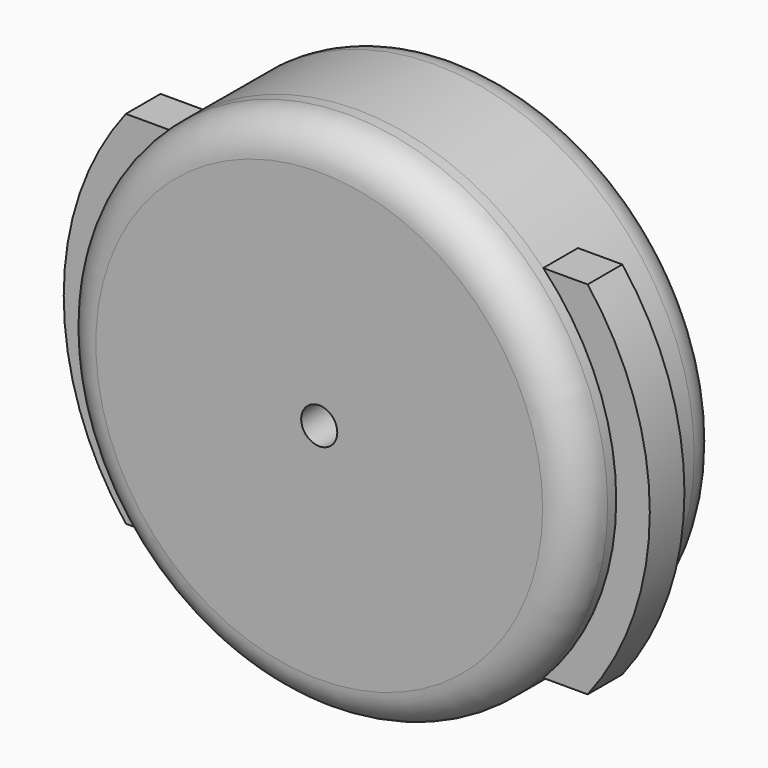
from build123d import *

# Parameters (mm, degrees)
F0_R           = 9.1313
F1_DEPTH       = 3.175
F3_DEPTH       = 1.524
F4_R           = 9.1313
F5_DEPTH       = 1.524
F6_R           = 9.1313
F7_DEPTH       = 1.651
F8_R           = 7.6073
F9_DEPTH       = 4.826
F10_R          = 0.635
F11_DEPTH      = 25.4
F11_DEPTH_BACK = 25.4
F12_R          = 1.27
F13_R          = 1.27


with BuildPart() as f1:
    # F0 (on Front) → F1 (new body)
    with BuildSketch(Plane.XZ):
        Circle(F0_R)
    extrude(amount=F1_DEPTH)

    # F2 (on face) → F3 (join)
    with BuildSketch(Plane.XZ.offset(3.175)):
        with BuildLine():
            Line((8.12546, 6.35), (-8.12546, 6.35))
            ThreePointArc((-8.12546, 6.35), (-10.3124, 0), (-8.12546, -6.35))
            Line((-8.12546, -6.35), (8.12546, -6.35))
            ThreePointArc((8.12546, -6.35), (10.3124, 0), (8.12546, 6.35))
        make_face()
    extrude(amount=F3_DEPTH)

    # F4 (on face) → F5 (join)
    with BuildSketch(Plane.XZ.offset(4.699)):
        Circle(F4_R)
    extrude(amount=-F5_DEPTH)

    # F6 (on face) → F7 (join)
    with BuildSketch(Plane.XZ.offset(4.699)):
        Circle(F6_R)
    extrude(amount=F7_DEPTH)

    # F8 (on face) → F9 (cut)
    with BuildSketch(Plane(origin=(0, 0, 0), x_dir=(-1, 0, 0), z_dir=(0, 1, 0))):
        Circle(F8_R)
    extrude(amount=-F9_DEPTH, mode=Mode.SUBTRACT)

    # F10 (on face) → F11 (cut, two sides)
    with BuildSketch(Plane.XZ.offset(6.35)) as f11_sk:
        Circle(F10_R)
    extrude(amount=-F11_DEPTH, mode=Mode.SUBTRACT)
    extrude(f11_sk.sketch, amount=-F11_DEPTH_BACK, mode=Mode.SUBTRACT)

    # F12
    f12_edges = [f1.edges().sort_by_distance(p)[0] for p in [
        (-9.1313, -6.35, 0),
    ]]
    fillet(f12_edges, radius=F12_R)

    # F13
    f13_edges = [f1.edges().sort_by_distance(p)[0] for p in [
        (-9.1313, 0, 0),
    ]]
    fillet(f13_edges, radius=F13_R)


solid = f1.part
